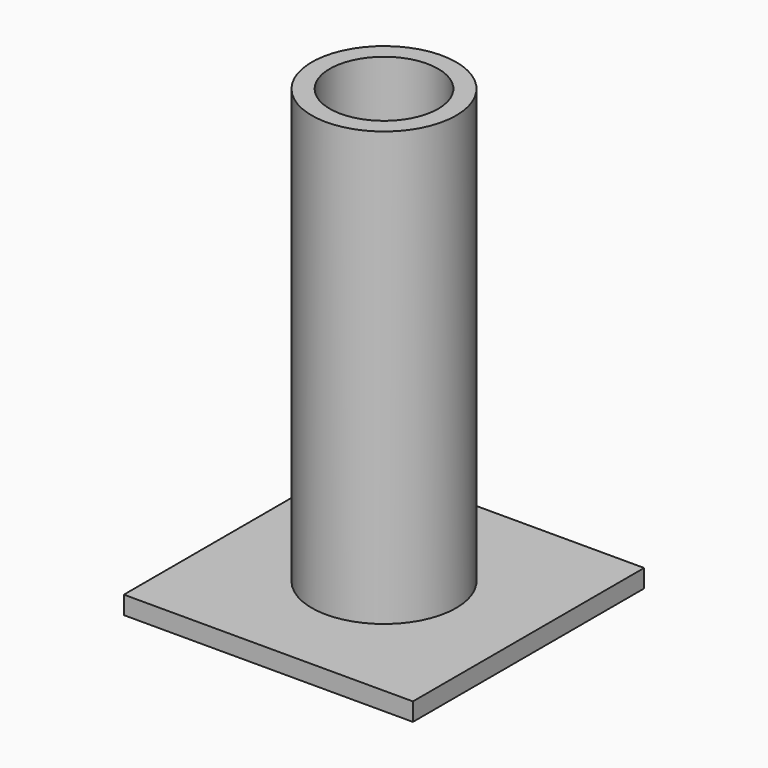
from build123d import *

# Parameters (mm, degrees)
F0_R     = 12.7
F0_R_2   = 9.525
F1_DEPTH = 76.2
F2_W     = 50.8
F2_H     = 50.8
F2_R     = 9.525
F3_DEPTH = 3.175


with BuildPart() as f1:
    # F0 (on Top) → F1 (new body)
    with BuildSketch(Plane.XY):
        Circle(F0_R)
        Circle(F0_R_2, mode=Mode.SUBTRACT)
    extrude(amount=F1_DEPTH)

    # F2 (on Top) → F3 (join)
    with BuildSketch(Plane.XY):
        Rectangle(F2_W, F2_H)
        Circle(F2_R, mode=Mode.SUBTRACT)
    extrude(amount=-F3_DEPTH)


solid = f1.part
